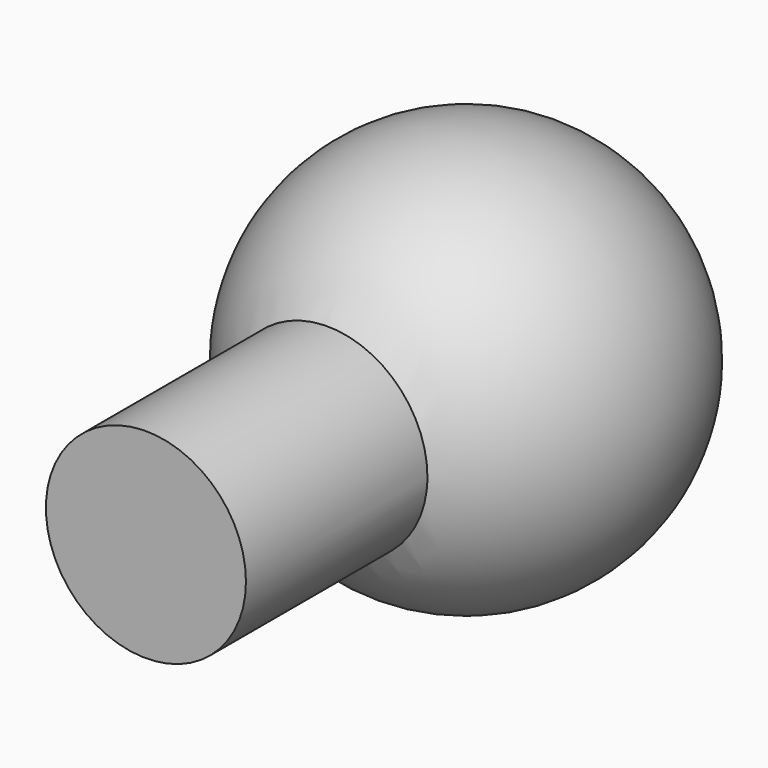
from build123d import *

# Parameters (mm, degrees)
F2_R     = 12.7
F3_DEPTH = 50.8


with BuildPart() as f1:
    # F0 (on Front) → F1 (revolve)
    with BuildSketch(Plane.XZ):
        with BuildLine():
            Line((-25.4, 0), (25.4, 0))
            ThreePointArc((25.4, 0), (0, 25.4), (-25.4, 0))
        make_face()
    revolve(axis=Axis((0, 0, 0), (-1, 0, 0)))

    # F2 (on Front) → F3 (join)
    with BuildSketch(Plane.XZ):
        Circle(F2_R)
    extrude(amount=F3_DEPTH)


solid = f1.part
